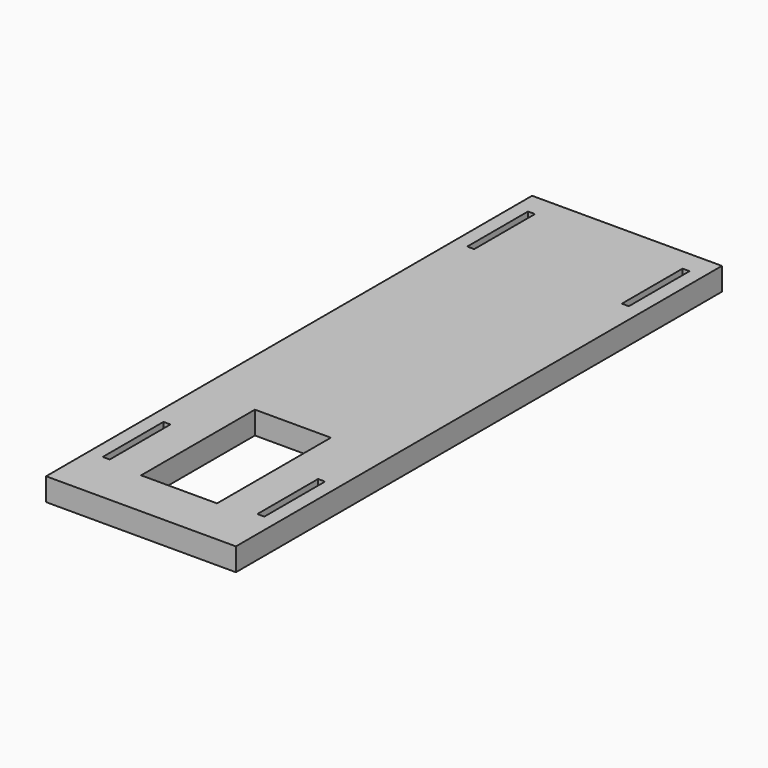
from build123d import *

# Parameters (mm, degrees)
F0_W     = 63.5
F0_H     = 203.2
F1_DEPTH = 7.62
F3_DEPTH = 12.7
F4_W     = 2.3368
F4_H     = 25.4
F4_W_2   = 2.338178
F5_DEPTH = 25.4


with BuildPart() as f1:
    # F0 (on Top) → F1 (new body)
    with BuildSketch(Plane.XY):
        with Locations((-31.75, 26.023151)):
            Rectangle(F0_W, F0_H)
    extrude(amount=F1_DEPTH)

    # F2 (on face) → F3 (cut)
    with BuildSketch(Plane.XY.offset(7.62)):
        Polygon((-19.05, -59.665699), (-19.05, -12.076849), (-31.75, -12.076849), (-44.45, -12.076849), (-44.45, -59.665699), align=None)
    extrude(amount=-F3_DEPTH, mode=Mode.SUBTRACT)

    # F4 (on face) → F5 (cut)
    with BuildSketch(Plane.XY.offset(7.62)):
        with Locations((-57.605822, 107.303151)):
            Rectangle(F4_W, F4_H)
        with Locations((-57.606511, -45.096849)):
            Rectangle(F4_W_2, F4_H)
        with Locations((-5.894178, 107.303151)):
            Rectangle(F4_W, F4_H)
        with Locations((-5.893489, -45.096849)):
            Rectangle(F4_W_2, F4_H)
    extrude(amount=-F5_DEPTH, mode=Mode.SUBTRACT)


solid = f1.part
